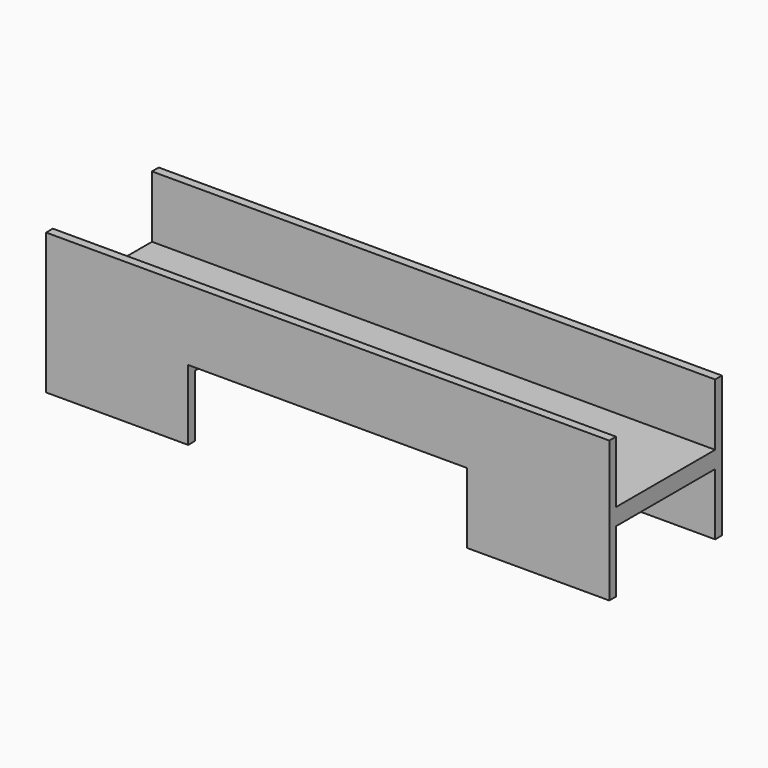
from build123d import *

# Parameters (mm, degrees)
F0_W     = 200
F0_H     = 25
F1_DEPTH = 50
F2_W     = 44
F2_H     = 22
F3_DEPTH = 100.001
F4_DEPTH = 100.001
F5_W     = 50.4667520523
F5_H     = 50
F6_DEPTH = 25
F8_DEPTH = 200.001


with BuildPart() as f1:
    # F0 (on Front) → F1 (new body)
    with BuildSketch(Plane.XZ):
        Rectangle(F0_W, F0_H)
    extrude(amount=F1_DEPTH)

    # F2 (on Right) → F3 (cut, through all)
    with BuildSketch(Plane.YZ):
        with Locations((-25, 1.5)):
            Rectangle(F2_W, F2_H)
    extrude(amount=F3_DEPTH, mode=Mode.SUBTRACT)

    # F2 (on Right) → F4 (cut, through all)
    with BuildSketch(Plane.YZ):
        with Locations((-25, 1.5)):
            Rectangle(F2_W, F2_H)
    extrude(amount=-F4_DEPTH, mode=Mode.SUBTRACT)

    # F5 (on face) → F6 (join)
    with BuildSketch(Plane(origin=(0, 0, -12.5), x_dir=(1, 0, 0), z_dir=(0, 0, -1))):
        with Locations((74.7666239738, 25)):
            Rectangle(F5_W, F5_H)
    extrude(amount=F6_DEPTH)

    # F7 (on face) → F8 (cut, through all)
    with BuildSketch(Plane.YZ.offset(100)):
        Polygon((-47, -31.9465436041), (-47, -37.5), (-3, -37.5), (-3, -31.9465436041), (-3, -15.5), (-24.8005185276, -15.5), (-47, -15.5), align=None)
    extrude(amount=-F8_DEPTH, mode=Mode.SUBTRACT)

    # F9: F1 across plane


with BuildPart() as f1_1:
    add(f1.part)
    add(f1.part.mirror(Plane.YZ))


solid = f1_1.part
